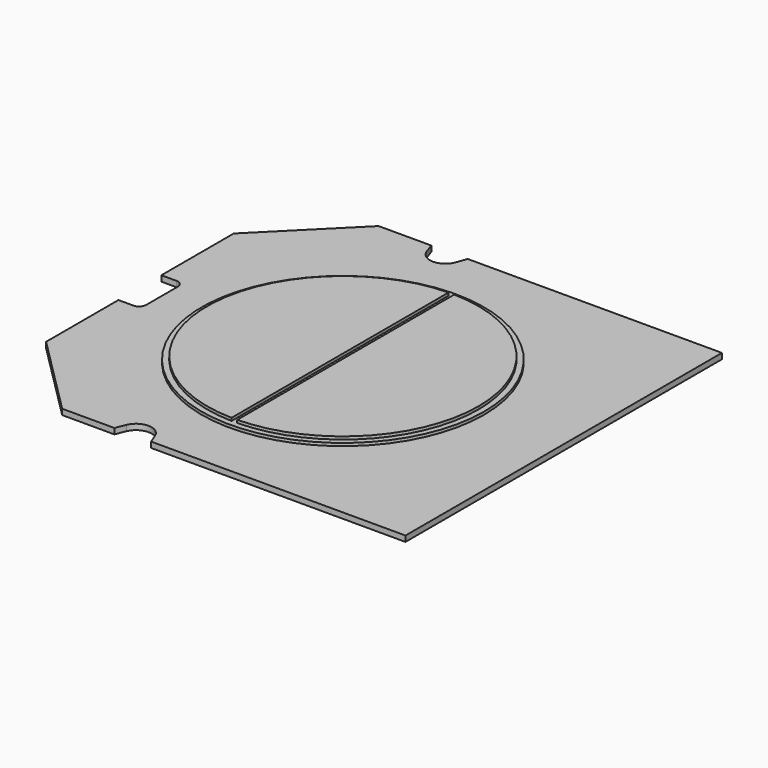
from build123d import *

# Parameters (mm, degrees)
F0_W      = 150
F0_H      = 140
F1_DEPTH  = 2
F3_DEPTH  = 2.001
F5_DEPTH  = 2.001
F7_DEPTH  = 2.001
F8_R      = 50
F9_DEPTH  = 1
F11_DEPTH = 1


with BuildPart() as f1:
    # F0 (on Top) → F1 (new body)
    with BuildSketch(Plane.XY):
        Rectangle(F0_W, F0_H)
    extrude(amount=F1_DEPTH)

    # F2 (on face) → F3 (cut, through all)
    with BuildSketch(Plane.XY.offset(2)):
        Polygon((-75, 70), (-75, 41.5), (-46.5, 70), align=None)
        Polygon((-46.5, -70), (-75, -41.5), (-75, -70), align=None)
    extrude(amount=-F3_DEPTH, mode=Mode.SUBTRACT)

    # F4 (on face) → F5 (cut, through all)
    with BuildSketch(Plane.XY.offset(2)):
        with BuildLine():
            Line((-69.68, 9.5), (-75, 9.5))
            Line((-75, 9.5), (-75, -9.5))
            Line((-75, -9.5), (-69.68, -9.5))
            ThreePointArc((-69.68, -9.5), (-67.912233, -8.767767), (-67.18, -7))
            Line((-67.18, -7), (-67.18, 7))
            ThreePointArc((-67.18, 7), (-67.912233, 8.767767), (-69.68, 9.5))
        make_face()
    extrude(amount=-F5_DEPTH, mode=Mode.SUBTRACT)

    # F6 (on face) → F7 (cut, through all)
    with BuildSketch(Plane.XY.offset(2)):
        with BuildLine():
            Line((-28.031671, -70), (-15, -70))
            Line((-15, -70), (-16.416769, -66.495551))
            ThreePointArc((-16.416769, -66.495551), (-21.515836, -63.056988), (-26.614902, -66.495551))
            Line((-26.614902, -66.495551), (-28.031671, -70))
        make_face()
        with BuildLine():
            Line((-27.876137, 70), (-26.631231, 66.430881))
            ThreePointArc((-26.631231, 66.430881), (-21.438069, 62.742254), (-16.244907, 66.430881))
            Line((-16.244907, 66.430881), (-15, 70))
            Line((-15, 70), (-27.876137, 70))
        make_face()
    extrude(amount=-F7_DEPTH, mode=Mode.SUBTRACT)

    # F8 (on face) → F9 (join)
    with BuildSketch(Plane.XY.offset(2)):
        with Locations((-3.16, 0)):
            Circle(F8_R)
    extrude(amount=F9_DEPTH)

    # F10 (on face) → F11 (join)
    with BuildSketch(Plane.XY.offset(3)):
        with BuildLine():
            ThreePointArc((-2.16, -47.989582), (31.132856, -33.585711), (44.84, 0))
            ThreePointArc((44.84, 0), (31.132856, 33.585711), (-2.16, 47.989582))
            Line((-2.16, 47.989582), (-2.16, -47.989582))
        make_face()
        with BuildLine():
            Line((-4.16, -47.989582), (-4.16, 47.989582))
            ThreePointArc((-4.16, 47.989582), (-51.16, 0), (-4.16, -47.989582))
        make_face()
    extrude(amount=F11_DEPTH)


solid = f1.part
